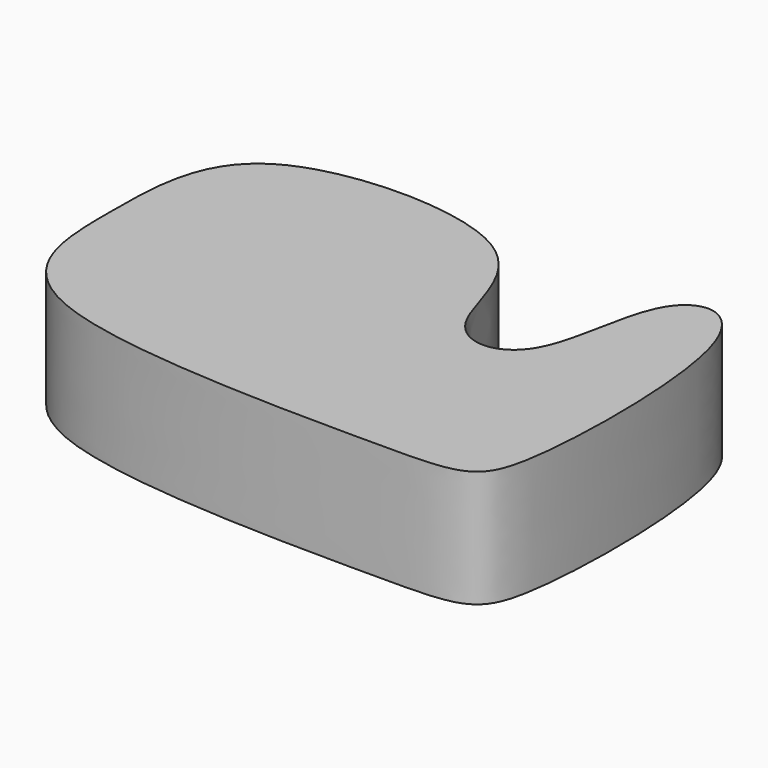
from build123d import *

# Parameters (mm, degrees)
PAD_DEPTH = 100


with BuildPart() as part:
    # Sketch → Pad (new body)
    with BuildSketch(Plane.XY):
        with BuildLine():
            add(Edge.make_bspline(
                [(-244.781475, 112.945666), (-244.781475, 162.945666), (-244.781475, 262.945666), (25.218525, 262.945666), (25.218525, 112.945666), (115.218525, 112.945666), (115.218525, 262.945666), (205.218525, 262.945666), (205.218525, -37.054334), (160.218525, -37.054334), (-244.781475, -37.054334), (-244.781475, 62.945666), (-244.781475, 112.945666)],
                knots=[0, 0, 0, 0, 0.1, 0.2, 0.3, 0.4, 0.5, 0.6, 0.7, 0.8, 0.9, 1, 1, 1, 1], degree=3))
        make_face()
    extrude(amount=PAD_DEPTH)


solid = part.part
